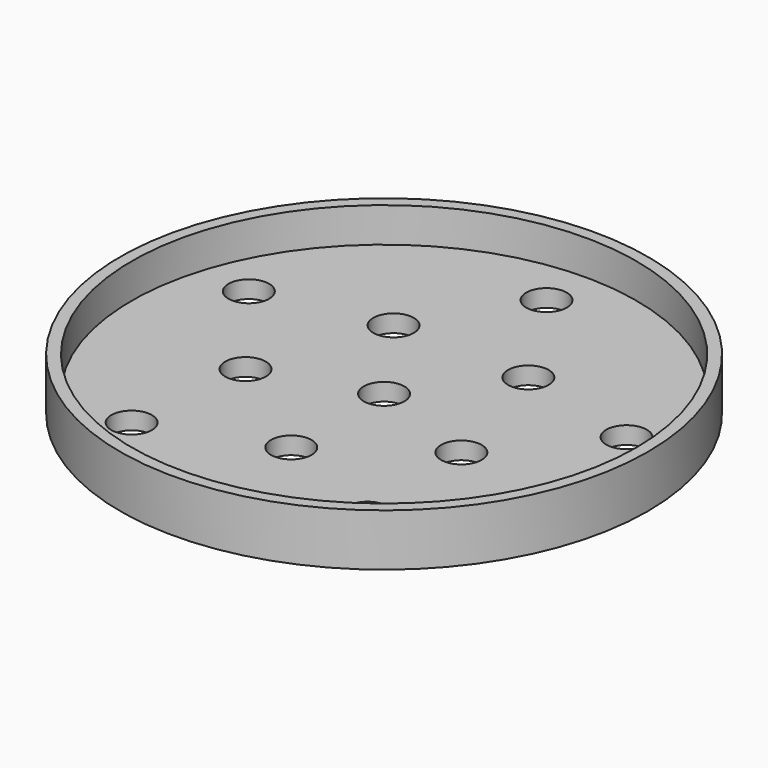
from build123d import *

# Parameters (mm, degrees)
F0_R     = 22.75
F0_R_2   = 1.75
F1_DEPTH = 1.5
F2_R     = 22.75
F2_R_2   = 21.75
F3_DEPTH = 3


with BuildPart() as f1:
    # F0 (on Top) → F1 (new body)
    with BuildSketch(Plane.XY):
        Circle(F0_R)
        with Locations((-10.653325, -13.883683)):
            Circle(F0_R_2, mode=Mode.SUBTRACT)
        with Locations((-9.53717, -3.007058)):
            Circle(F0_R_2, mode=Mode.SUBTRACT)
        with Locations((10.037588, -14.335161)):
            Circle(F0_R_2, mode=Mode.SUBTRACT)
        with Locations((0, -10)):
            Circle(F0_R_2, mode=Mode.SUBTRACT)
        with Locations((9.396926, -3.420201)):
            Circle(F0_R_2, mode=Mode.SUBTRACT)
        with Locations((-16.444621, 5.985353)):
            Circle(F0_R_2, mode=Mode.SUBTRACT)
        with Locations((-5.735764, 8.19152)):
            Circle(F0_R_2, mode=Mode.SUBTRACT)
        Circle(F0_R_2, mode=Mode.SUBTRACT)
        with Locations((6.087614, 7.933533)):
            Circle(F0_R_2, mode=Mode.SUBTRACT)
        with Locations((16.690047, 5.262351)):
            Circle(F0_R_2, mode=Mode.SUBTRACT)
        with Locations((0, 17.5)):
            Circle(F0_R_2, mode=Mode.SUBTRACT)
        Circle(F0_R)
        with Locations((-10.653325, -13.883683)):
            Circle(F0_R_2, mode=Mode.SUBTRACT)
        with Locations((-9.53717, -3.007058)):
            Circle(F0_R_2, mode=Mode.SUBTRACT)
        with Locations((10.037588, -14.335161)):
            Circle(F0_R_2, mode=Mode.SUBTRACT)
        with Locations((0, -10)):
            Circle(F0_R_2, mode=Mode.SUBTRACT)
        with Locations((9.396926, -3.420201)):
            Circle(F0_R_2, mode=Mode.SUBTRACT)
        with Locations((-16.444621, 5.985353)):
            Circle(F0_R_2, mode=Mode.SUBTRACT)
        with Locations((-5.735764, 8.19152)):
            Circle(F0_R_2, mode=Mode.SUBTRACT)
        Circle(F0_R_2, mode=Mode.SUBTRACT)
        with Locations((6.087614, 7.933533)):
            Circle(F0_R_2, mode=Mode.SUBTRACT)
        with Locations((16.690047, 5.262351)):
            Circle(F0_R_2, mode=Mode.SUBTRACT)
        with Locations((0, 17.5)):
            Circle(F0_R_2, mode=Mode.SUBTRACT)
    extrude(amount=F1_DEPTH)

    # F2 (on face) → F3 (join)
    with BuildSketch(Plane.XY.offset(1.5)):
        Circle(F2_R)
        Circle(F2_R_2, mode=Mode.SUBTRACT)
    extrude(amount=F3_DEPTH)


solid = f1.part
